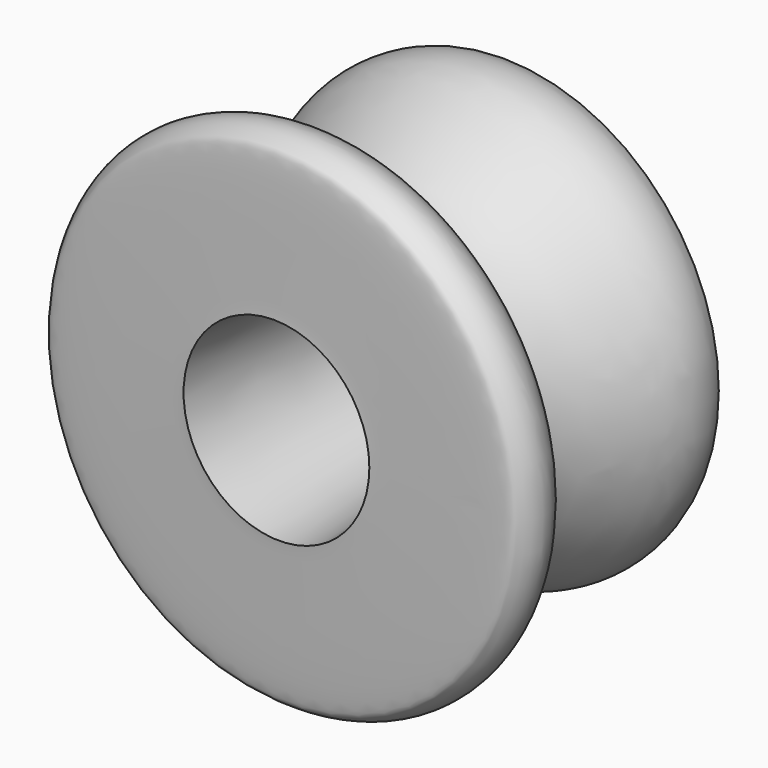
from build123d import *


with BuildPart() as f1:
    # F0 (on Top) → F1 (revolve)
    with BuildSketch(Plane.XY):
        with BuildLine():
            add(Edge.make_bspline(
                [(-32.9504573068, 49.1252551041), (-18.2011635832, 48.5314601891), (14.3483583762, 48.0414369801), (19.4806304446, 50.7820280389), (25.5182554767, 31.7631581271), (-3.1427970968, 1.4469317919), (-4.8350037764, -27.1518488617), (21.5325851024, -22.4680939528), (30.5195138485, -39.6320192399), (24.6260535571, -47.989049571), (21.5893443315, -49.8826692495), (-27.5825904183, -47.8025970397), (-27.906341631, -48.1905192895)],
                knots=[0, 0, 0, 0, 0.1564579514, 0.2010432903, 0.2852456041, 0.4331528236, 0.5350053913, 0.6366059741, 0.726023769, 0.7897910513, 0.8427685182, 0.9980195614, 0.9980195614, 0.9980195614, 0.9980195614], degree=3))
            Line((-32.9504573068, 49.1252551041), (-27.906341631, -48.1905192895))
        make_face()
    revolve(axis=Axis((-59.3814142048, 18.6572554521, 0), (-0.0440101668, -0.9990310832, 0)))


solid = f1.part
